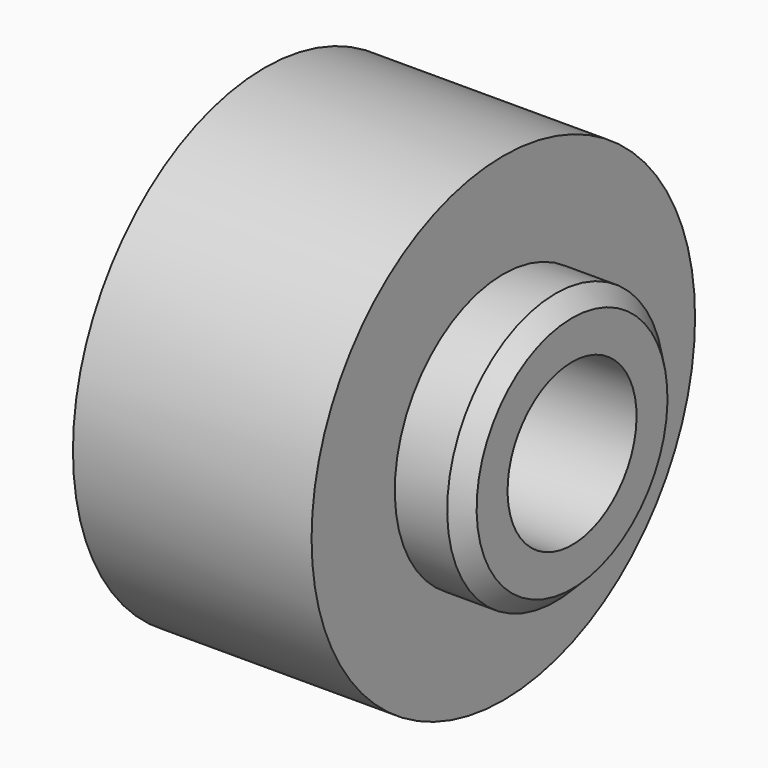
from build123d import *

# Parameters (mm, degrees)
F0_W     = 22.5392356515
F0_H     = 17.0982331038
F0_W_2   = 21.3571861386
F0_H_2   = 32.321177423
F2_DEPTH = 51.5995789319
F4_SIZE  = 5.08


with BuildPart() as f1:
    # F0 (on Front) → F1 (revolve)
    with BuildSketch(Plane.XZ):
        with Locations((11.2696178257, 33.5941463709)):
            Rectangle(F0_W, F0_H)
        with Locations((33.2178287208, 33.5941463709)):
            Rectangle(F0_W_2, F0_H)
        with Locations((11.2696178257, 58.3038516343)):
            Rectangle(F0_W, F0_H_2)
    revolve(axis=Axis((22.569514811, 0, 0), (1, 0, 0)))

    # F2 (add): a face of the model
    f2_faces = [f1.faces().sort_by_distance(p)[0] for p in [
        (0, 0, -72.3582679167),
    ]]
    extrude(f2_faces, amount=F2_DEPTH)

    # F4
    f4_edges = [f1.edges().sort_by_distance(p)[0] for p in [
        (43.896422, 0, -42.143263),
    ]]
    chamfer(f4_edges, length=F4_SIZE)


solid = f1.part
